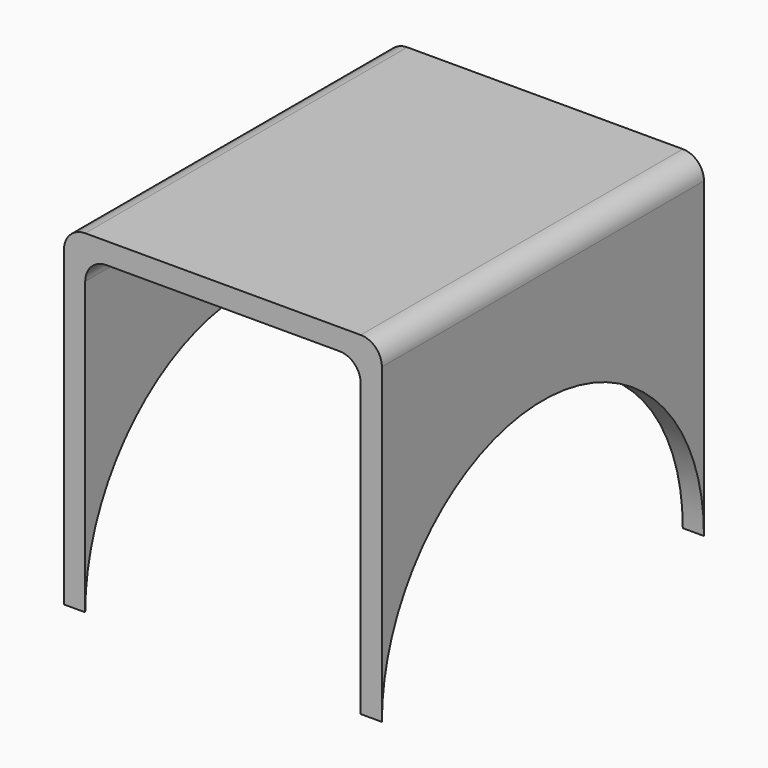
from build123d import *

# Parameters (mm, degrees)
F1_DEPTH = 38
F3_DEPTH = 30.001
F4_R     = 2


with BuildPart() as f1:
    # F0 (on Front) → F1 (new body)
    with BuildSketch(Plane.XZ):
        Polygon((-2, 0), (0, 0), (0, 29.5), (26, 29.5), (26, 0), (28, 0), (28, 31.5), (-2, 31.5), align=None)
    extrude(amount=F1_DEPTH)

    # F2 (on face) → F3 (cut, through all)
    with BuildSketch(Plane(origin=(-2, 0, 0), x_dir=(0, -1, 0), z_dir=(-1, 0, 0))):
        with BuildLine():
            ThreePointArc((0, 0), (19, -19), (38, 0))
            Line((38, 0), (0, 0))
        make_face()
        with BuildLine():
            Line((0, 0), (38, 0))
            ThreePointArc((38, 0), (19, 19), (0, 0))
        make_face()
    extrude(amount=-F3_DEPTH, mode=Mode.SUBTRACT)

    # F4
    f4_edges = [f1.edges().sort_by_distance(p)[0] for p in [
        (26, -19, 29.5),
        (0, -19, 29.5),
        (28, -19, 31.5),
        (-2, -19, 31.5),
    ]]
    fillet(f4_edges, radius=F4_R)


solid = f1.part
